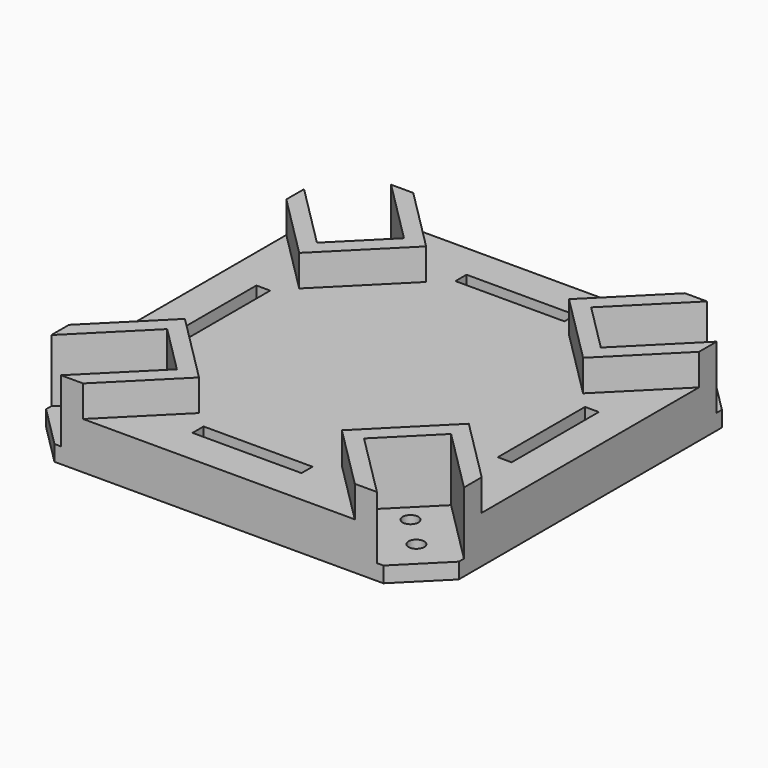
from build123d import *

# Parameters (mm, degrees)
F1_DEPTH = 12
F0_R     = 1.5
F2_DEPTH = 3
F4_DEPTH = 6
F5_W     = 20.872174
F5_H     = 2.650432
F5_W_2   = 2.650432
F5_H_2   = 20.872174
F6_DEPTH = 9.001


with BuildPart() as f1:
    # F0 (on Top) → F1 (new body)
    with BuildSketch(Plane.XY):
        Polygon((36.522065, 27.258966), (27.188256, 17.925157), (17.925157, 27.188256), (27.258966, 36.522065), (30.258966, 39.522065), (27.258966, 39.522065), (0, 39.522065), (-27.258966, 39.522065), (-30.258966, 39.522065), (-27.258966, 36.522065), (-17.925157, 27.188256), (-27.188256, 17.925157), (-36.522065, 27.258966), (-39.522065, 30.258966), (-39.522065, 27.258966), (-39.522065, 0), (-39.522065, -27.258966), (-39.522065, -30.258966), (-36.522065, -27.258966), (-27.188256, -17.925157), (-17.925157, -27.188256), (-27.258966, -36.522065), (-30.258966, -39.522065), (-27.258966, -39.522065), (0, -39.522065), (27.258966, -39.522065), (30.258966, -39.522065), (27.258966, -36.522065), (17.925157, -27.188256), (27.188256, -17.925157), (36.522065, -27.258966), (39.522065, -30.258966), (39.522065, -27.258966), (39.522065, 0), (39.522065, 27.258966), (39.522065, 30.258966), align=None)
    extrude(amount=F1_DEPTH)

    # F0 (on Top) + F1_face (on face) → F2 (join)
    with BuildSketch(Plane.XY):
        Polygon((-31.501607, -39.522065), (-30.258966, -39.522065), (-27.258966, -36.522065), (-17.925157, -27.188256), (-27.188256, -17.925157), (-36.522065, -27.258966), (-39.522065, -30.258966), (-39.522065, -31.501607), align=None)
        with Locations((-31.041988, -31.041988)):
            Circle(F0_R, mode=Mode.SUBTRACT)
        with Locations((-25.385133, -25.385133)):
            Circle(F0_R, mode=Mode.SUBTRACT)
        Polygon((-27.258966, 36.522065), (-30.258966, 39.522065), (-31.501607, 39.522065), (-39.522065, 31.501607), (-39.522065, 30.258966), (-36.522065, 27.258966), (-27.188256, 17.925157), (-17.925157, 27.188256), align=None)
        with Locations((-25.385133, 25.385133)):
            Circle(F0_R, mode=Mode.SUBTRACT)
        with Locations((-31.041988, 31.041988)):
            Circle(F0_R, mode=Mode.SUBTRACT)
        Polygon((17.925157, 27.188256), (27.188256, 17.925157), (36.522065, 27.258966), (39.522065, 30.258966), (39.522065, 31.501607), (31.501607, 39.522065), (30.258966, 39.522065), (27.258966, 36.522065), align=None)
        with Locations((25.385133, 25.385133)):
            Circle(F0_R, mode=Mode.SUBTRACT)
        with Locations((31.041988, 31.041988)):
            Circle(F0_R, mode=Mode.SUBTRACT)
        Polygon((39.522065, -31.501607), (39.522065, -30.258966), (36.522065, -27.258966), (27.188256, -17.925157), (17.925157, -27.188256), (27.258966, -36.522065), (30.258966, -39.522065), (31.501607, -39.522065), align=None)
        with Locations((31.041988, -31.041988)):
            Circle(F0_R, mode=Mode.SUBTRACT)
        with Locations((25.385133, -25.385133)):
            Circle(F0_R, mode=Mode.SUBTRACT)
    with BuildSketch(Plane.XY.offset(12)):
        Polygon((27.188256, -17.925157), (39.522065, -30.258966), (39.522065, 30.258966), (27.188256, 17.925157), (17.925157, 27.188256), (30.258966, 39.522065), (-30.258966, 39.522065), (-17.925157, 27.188256), (-27.188256, 17.925157), (-39.522065, 30.258966), (-39.522065, -30.258966), (-27.188256, -17.925157), (-17.925157, -27.188256), (-30.258966, -39.522065), (30.258966, -39.522065), (17.925157, -27.188256), align=None)
    extrude(amount=F2_DEPTH)

    # F3 (on face) → F4 (cut)
    with BuildSketch(Plane.XY.offset(15)):
        Polygon((-26.016326, 39.522065), (-13.682516, 27.188256), (13.682516, 27.188256), (26.016326, 39.522065), align=None)
        Polygon((13.682516, 27.188256), (-13.682516, 27.188256), (-27.188256, 13.682516), (-27.188256, 0), (-27.188256, -13.682516), (-13.682516, -27.188256), (13.682516, -27.188256), (27.188256, -13.682516), (27.188256, 0), (27.188256, 13.682516), align=None)
        Polygon((-27.188256, 0), (-27.188256, 13.682516), (-39.522065, 26.016326), (-39.522065, 0), (-39.522065, -26.016326), (-27.188256, -13.682516), align=None)
        Polygon((39.522065, 26.016326), (27.188256, 13.682516), (27.188256, 0), (27.188256, -13.682516), (39.522065, -26.016326), (39.522065, 0), align=None)
        Polygon((13.682516, -27.188256), (-13.682516, -27.188256), (-26.016326, -39.522065), (26.016326, -39.522065), align=None)
    extrude(amount=-F4_DEPTH, mode=Mode.SUBTRACT)

    # F5 (on face) → F6 (cut, through all)
    with BuildSketch(Plane.XY.offset(9)):
        with Locations((0, 31.473912)):
            Rectangle(F5_W, F5_H)
        with Locations((-31.473912, 0)):
            Rectangle(F5_W_2, F5_H_2)
        with Locations((0, -31.473912)):
            Rectangle(F5_W, F5_H)
        with Locations((31.473912, 0)):
            Rectangle(F5_W_2, F5_H_2)
    extrude(amount=-F6_DEPTH, mode=Mode.SUBTRACT)


solid = f1.part
